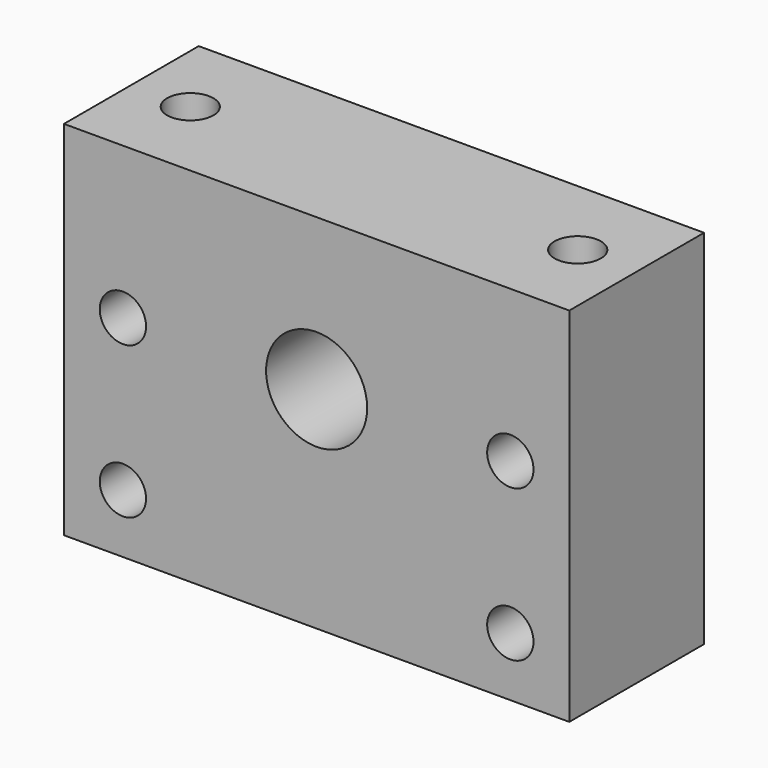
from build123d import *

# Parameters (mm, degrees)
F0_W     = 60
F0_H     = 43
F0_R     = 6
F1_DEPTH = 20
F2_R     = 2.75
F3_DEPTH = 43.001
F4_R     = 2.75
F5_DEPTH = 20.001


with BuildPart() as f1:
    # F0 (on Front) → F1 (new body)
    with BuildSketch(Plane.XZ):
        Rectangle(F0_W, F0_H)
        with Locations((0, 3.5)):
            Circle(F0_R, mode=Mode.SUBTRACT)
    extrude(amount=-F1_DEPTH)

    # F2 (on face) → F3 (cut, through all)
    with BuildSketch(Plane.XY.offset(21.5)):
        with Locations((-23, 10)):
            Circle(F2_R)
        with Locations((23, 10)):
            Circle(F2_R)
    extrude(amount=-F3_DEPTH, mode=Mode.SUBTRACT)

    # F4 (on face) → F5 (cut, through all)
    with BuildSketch(Plane.XZ):
        with Locations((23, 3.5)):
            Circle(F4_R)
        with Locations((-23, -14.5)):
            Circle(F4_R)
        with Locations((23, -14.5)):
            Circle(F4_R)
        with Locations((-23, 3.5)):
            Circle(F4_R)
    extrude(amount=-F5_DEPTH, mode=Mode.SUBTRACT)


solid = f1.part
